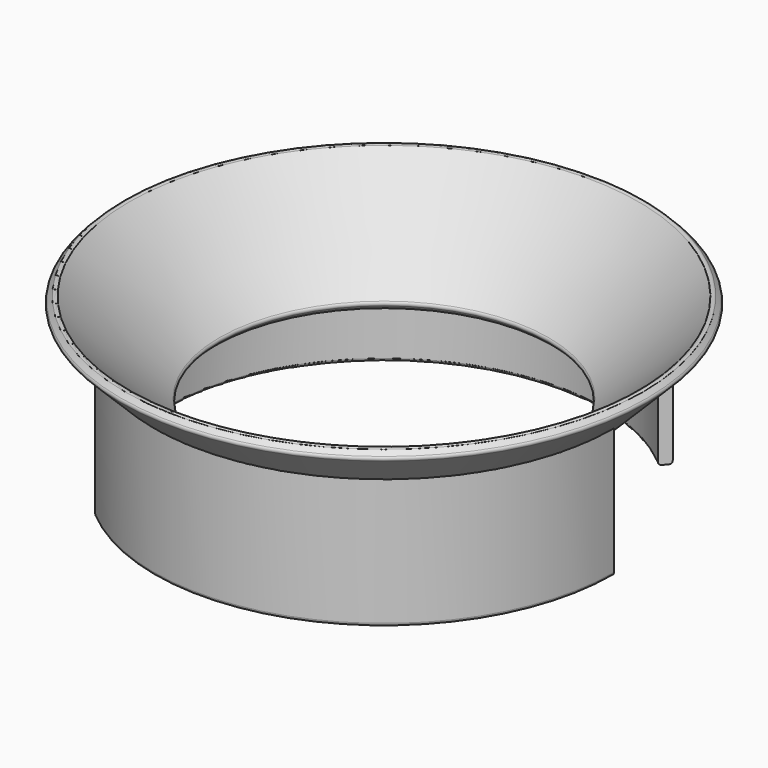
from build123d import *

# Parameters (mm, degrees)
F3_ANGLE = 130


with BuildPart() as f3:
    # F0 (on Front) → F3 (revolve)
    with BuildSketch(Plane.XZ):
        with BuildLine():
            Line((-39, 2.5), (-39, 2))
            Line((-39, 2), (-39, -19))
            ThreePointArc((-39, -19), (-38.853553, -19.353553), (-38.5, -19.5))
            Line((-38.5, -19.5), (-37.5, -19.5))
            ThreePointArc((-37.5, -19.5), (-37.146447, -19.353553), (-37, -19))
            Line((-37, -19), (-37, 0))
            Line((-37, 0), (-37, 0.5))
            Line((-37, 0.5), (-39, 2.5))
        make_face()
        with BuildLine():
            Line((39, -19), (39, 2))
            Line((39, 2), (39, 2.5))
            Line((39, 2.5), (37, 0.5))
            Line((37, 0.5), (37, 0))
            Line((37, 0), (37, -19))
            ThreePointArc((37, -19), (37.146447, -19.353553), (37.5, -19.5))
            Line((37.5, -19.5), (38.5, -19.5))
            ThreePointArc((38.5, -19.5), (38.853553, -19.353553), (39, -19))
        make_face()
    revolve(axis=Axis((0, 0, -10.309674), (0, 0, -1)), revolution_arc=F3_ANGLE)


with BuildPart() as f5:
    # F2 (on Front) → F5 (revolve)
    with BuildSketch(Plane.XZ):
        with BuildLine():
            ThreePointArc((-29.353553, -7.146447), (-29, -7.292893), (-28.646447, -7.146447))
            Line((-28.646447, -7.146447), (-27.93934, -6.43934))
            ThreePointArc((-27.93934, -6.43934), (-27.792893, -6.085786), (-27.93934, -5.732233))
            Line((-27.93934, -5.732233), (-43.232233, 9.56066))
            ThreePointArc((-43.232233, 9.56066), (-43.585786, 9.707107), (-43.93934, 9.56066))
            Line((-43.93934, 9.56066), (-44.646447, 8.853553))
            ThreePointArc((-44.646447, 8.853553), (-44.792893, 8.5), (-44.646447, 8.146447))
            Line((-44.646447, 8.146447), (-29.353553, -7.146447))
        make_face()
    revolve(axis=Axis((0, 0, -11.544993), (0, 0, -1)))


solid = Compound([f3.part, f5.part])
